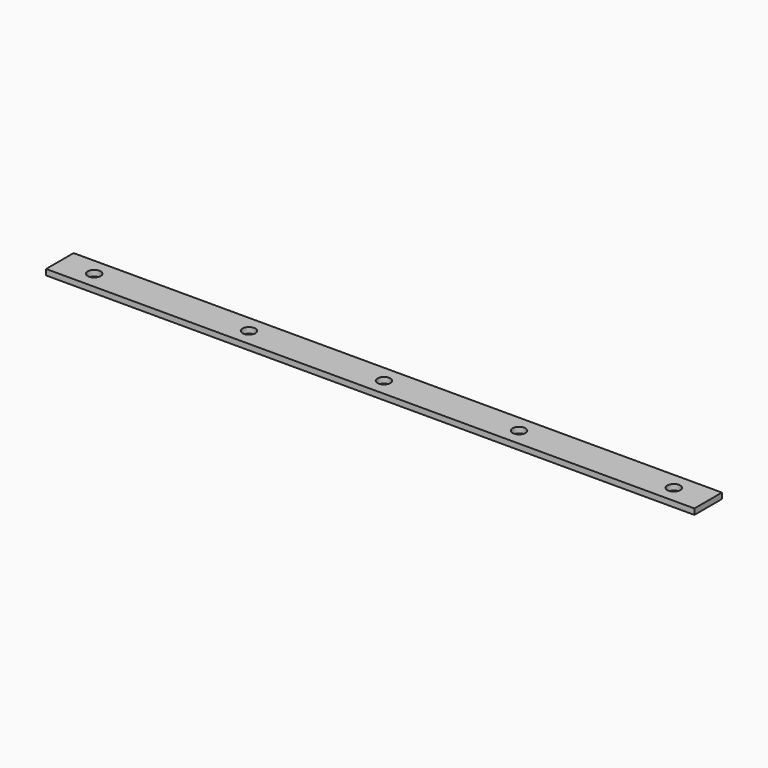
from build123d import *

# Parameters (mm, degrees)
F0_W     = 1436.6875
F0_H     = 76.2
F0_R     = 14.2875
F1_DEPTH = 12.7


with BuildPart() as f1:
    # F0 (on Top) → F1 (new body)
    with BuildSketch(Plane.XY):
        Rectangle(F0_W, F0_H)
        with Locations((-642.14375, 0)):
            Circle(F0_R, mode=Mode.SUBTRACT)
        with Locations((-299.24375, 0)):
            Circle(F0_R, mode=Mode.SUBTRACT)
        Circle(F0_R, mode=Mode.SUBTRACT)
        with Locations((299.24375, 0)):
            Circle(F0_R, mode=Mode.SUBTRACT)
        with Locations((642.14375, 0)):
            Circle(F0_R, mode=Mode.SUBTRACT)
    extrude(amount=F1_DEPTH)


solid = f1.part
